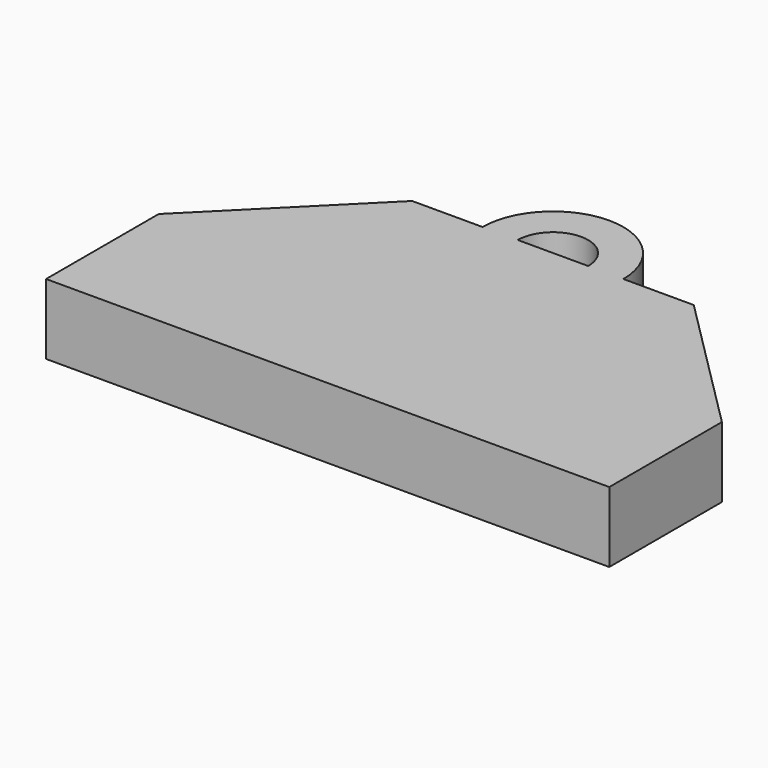
from build123d import *

# Parameters (mm, degrees)
F1_DEPTH = 25.4


with BuildPart() as f1:
    # F0 (on Top) → F1 (new body)
    with BuildSketch(Plane.XY):
        with BuildLine():
            Line((0, 50.8), (0, 0))
            Line((0, 0), (203.2, 0))
            Line((203.2, 0), (203.2, 50.8))
            Line((203.2, 50.8), (152.4, 101.6))
            Line((152.4, 101.6), (127, 101.6))
            ThreePointArc((127, 101.6), (101.6, 127), (76.2, 101.6))
            Line((76.2, 101.6), (50.8, 101.6))
            Line((50.8, 101.6), (0, 50.8))
        make_face()
        with BuildLine():
            ThreePointArc((88.9, 101.6), (101.6, 114.3), (114.3, 101.6))
            Line((114.3, 101.6), (88.9, 101.6))
        make_face(mode=Mode.SUBTRACT)
    extrude(amount=F1_DEPTH)


solid = f1.part
